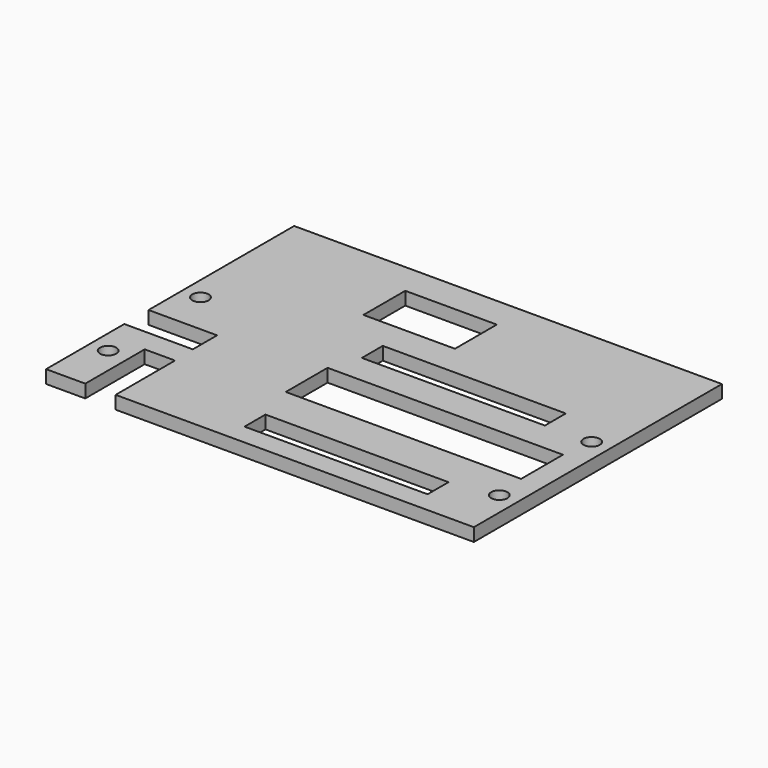
from build123d import *

# Parameters (mm, degrees)
F0_R     = 1.9812
F0_W     = 44.45
F0_H     = 6.35
F0_W_2   = 57.15
F0_H_2   = 12.7
F0_W_3   = 22.225
F1_DEPTH = 3.175


with BuildPart() as f1:
    # F0 (on Top) → F1 (new body)
    with BuildSketch(Plane.XY):
        Polygon((0, 23.7363), (0, 0), (9.51992, 0), (9.51992, 18.034), (16.88592, 18.034), (16.88592, 0), (103.886, 0), (103.886, 75.2983), (0, 75.2983), (0, 31.1023), (16.64462, 31.1023), (16.64462, 23.7363), align=None)
        with Locations((4.445, 13.2842)):
            Circle(F0_R, mode=Mode.SUBTRACT)
        with Locations((66.3575, 8.255)):
            Rectangle(F0_W, F0_H, mode=Mode.SUBTRACT)
        with Locations((99.441, 13.27912)):
            Circle(F0_R, mode=Mode.SUBTRACT)
        with Locations((69.9135, 27.432)):
            Rectangle(F0_W_2, F0_H_2, mode=Mode.SUBTRACT)
        with Locations((4.445, 41.3131)):
            Circle(F0_R, mode=Mode.SUBTRACT)
        with Locations((44.196, 61.3283)):
            Rectangle(F0_W_3, F0_H_2, mode=Mode.SUBTRACT)
        with Locations((66.1035, 44.1833)):
            Rectangle(F0_W, F0_H, mode=Mode.SUBTRACT)
        with Locations((99.441, 41.3131)):
            Circle(F0_R, mode=Mode.SUBTRACT)
    extrude(amount=F1_DEPTH)


solid = f1.part
